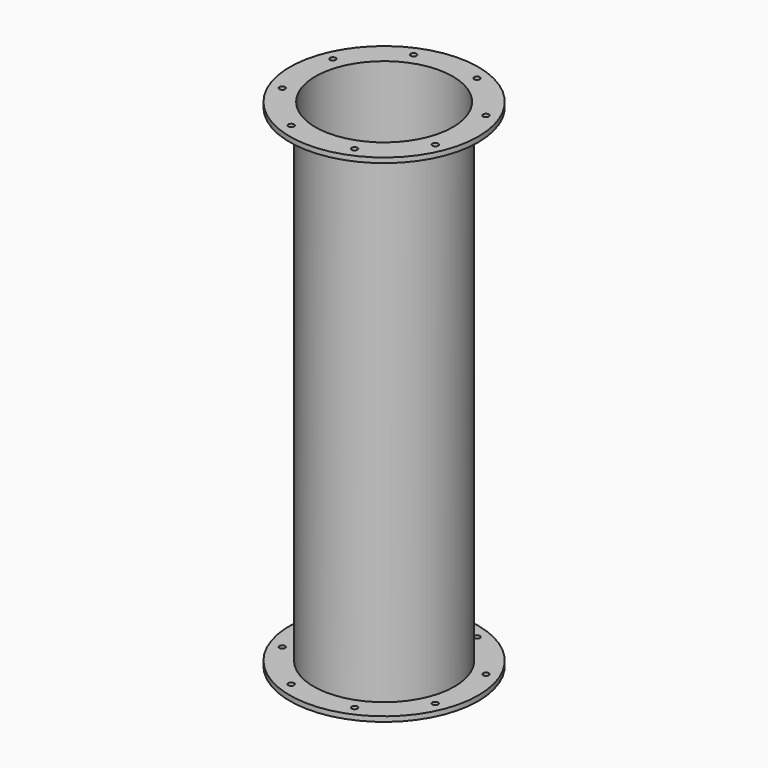
from build123d import *

# Parameters (mm, degrees)
SKETCH009_R      = 17.5
EXTRUDE004_DEPTH = 3000
ARRAY003_COUNT   = 8


with BuildPart() as array003:
    # Sketch009 (on Face8 of Revolve) → Extrude004 (new body)
    with BuildSketch(Plane(origin=(0, 0, 0), x_dir=(1, 0, 0), z_dir=(0, 0, -1))):
        with Locations((461.939766, 191.341716)):
            Circle(SKETCH009_R)
    extrude(amount=-EXTRUDE004_DEPTH)

    # Array003: Array003 ×8 about axis
    array003_axis = Axis((0, 0, 0), (0, 0, 1))


with BuildPart() as array003_1:
    add(array003.part)
    for i in range(1, ARRAY003_COUNT):
        add(array003.part.rotate(array003_axis, i * 360 / ARRAY003_COUNT))


with BuildPart() as bottom001:
    # Sketch → Revolve (revolve)
    with BuildSketch(Plane.XZ):
        Polygon((569, 0), (569, 30), (425, 30), (425, 2970), (569, 2970), (569, 3000), (415, 3000), (415, 0), align=None)
    revolve(axis=Axis((0, 0, 0), (0, 0, 1)))

    # Cut003: cut Array003
    add(array003_1.part, mode=Mode.SUBTRACT)


solid = bottom001.part
